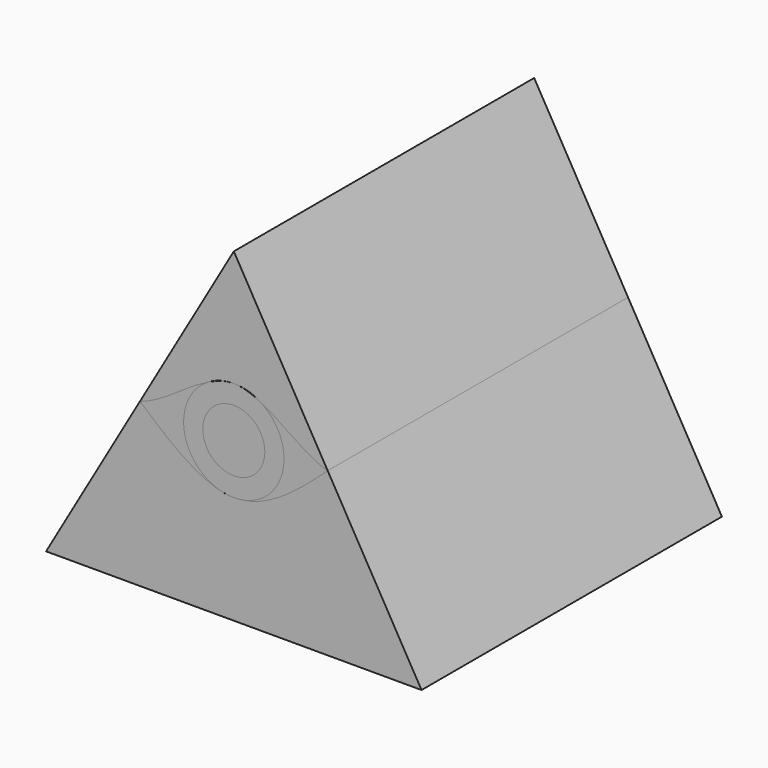
from build123d import *

# Parameters (mm, degrees)
F1_DEPTH = 25.4
F2_DEPTH = 25.4
F0_R     = 2.0978852378
F3_DEPTH = 25.4
F4_DEPTH = 25.4


with BuildPart() as f1:
    # F0 (on Front) → F1 (new body)
    with BuildSketch(Plane.XZ):
        with BuildLine():
            add(Edge.make_bspline(
                [(-12.7, 7.3323484187), (-10.5868676769, 7.2995452687), (-8.480804041, 9.0342229232), (-6.35, 10.9985226281)],
                knots=[0.5, 0.5, 0.5, 0.5, 1, 1, 1, 1], degree=3))
            add(Edge.make_bspline(
                [(-10.9566757348, 13.6443291005), (-9.4315203102, 12.8820206207), (-7.9096867806, 11.4385141645), (-6.35, 10.9985226281)],
                knots=[0.6377352874, 0.6377352874, 0.6377352874, 0.6377352874, 1, 1, 1, 1], degree=3))
            ThreePointArc((-10.9566757348, 13.6443291005), (-9.7453901873, 12.4048256996), (-9.3032627647, 10.729085654))
            ThreePointArc((-9.3032627647, 10.729085654), (-10.298144067, 8.327229721), (-12.7, 7.3323484187))
        make_face()
    extrude(amount=F1_DEPTH)


with BuildPart() as f1b:
    # F0 (on Front) → F1, piece 2 (new body)
    with BuildSketch(Plane.XZ):
        with BuildLine():
            add(Edge.make_bspline(
                [(-19.05, 10.9985226281), (-17.5134159045, 11.4502441937), (-15.937284411, 12.9413228119), (-14.3653817243, 13.6895463543)],
                knots=[0, 0, 0, 0, 0.3693022198, 0.3693022198, 0.3693022198, 0.3693022198], degree=3))
            add(Edge.make_bspline(
                [(-19.05, 10.9985226281), (-17.1705555831, 9.3708760181), (-15.2883246422, 7.7690918532), (-13.4107298629, 7.4075367822)],
                knots=[0, 0, 0, 0, 0.4439632481, 0.4439632481, 0.4439632481, 0.4439632481], degree=3))
            ThreePointArc((-13.4107298629, 7.4075367822), (-16.058182192, 10.2187561418), (-14.3653817243, 13.6895463543))
        make_face()
    extrude(amount=F1_DEPTH)


with BuildPart() as f2:
    # F0 (on Front) → F2 (new body)
    with BuildSketch(Plane.XZ):
        with BuildLine():
            Line((-25.4, 0), (0, 0))
            Line((0, 0), (-6.35, 10.9985226281))
            add(Edge.make_bspline(
                [(-12.7, 7.3323484187), (-10.5868676769, 7.2995452687), (-8.480804041, 9.0342229232), (-6.35, 10.9985226281)],
                knots=[0.5, 0.5, 0.5, 0.5, 1, 1, 1, 1], degree=3))
            ThreePointArc((-12.7, 7.3323484187), (-13.0573479495, 7.3511978097), (-13.4107298629, 7.4075367822))
            add(Edge.make_bspline(
                [(-19.05, 10.9985226281), (-17.1705555831, 9.3708760181), (-15.2883246422, 7.7690918532), (-13.4107298629, 7.4075367822)],
                knots=[0, 0, 0, 0, 0.4439632481, 0.4439632481, 0.4439632481, 0.4439632481], degree=3))
            Line((-19.05, 10.9985226281), (-25.4, 0))
        make_face()
    extrude(amount=F2_DEPTH)


with BuildPart() as f2b:
    # F0 (on Front) → F2, piece 2 (new body)
    with BuildSketch(Plane.XZ):
        with BuildLine():
            add(Edge.make_bspline(
                [(-10.9566757348, 13.6443291005), (-9.4315203102, 12.8820206207), (-7.9096867806, 11.4385141645), (-6.35, 10.9985226281)],
                knots=[0.6377352874, 0.6377352874, 0.6377352874, 0.6377352874, 1, 1, 1, 1], degree=3))
            Line((-6.35, 10.9985226281), (-12.7, 21.9970452561))
            Line((-12.7, 21.9970452561), (-19.05, 10.9985226281))
            add(Edge.make_bspline(
                [(-19.05, 10.9985226281), (-17.5134159045, 11.4502441937), (-15.937284411, 12.9413228119), (-14.3653817243, 13.6895463543)],
                knots=[0, 0, 0, 0, 0.3693022198, 0.3693022198, 0.3693022198, 0.3693022198], degree=3))
            ThreePointArc((-14.3653817243, 13.6895463543), (-13.563874614, 14.0141342833), (-12.706379445, 14.1258168987))
            ThreePointArc((-12.706379445, 14.1258168987), (-11.7987775235, 14.0040851798), (-10.9566757348, 13.6443291005))
        make_face()
    extrude(amount=F2_DEPTH)


with BuildPart() as f3:
    # F0 (on Front) → F3 (new body)
    with BuildSketch(Plane.XZ):
        with BuildLine():
            ThreePointArc((-9.3032627647, 10.729085654), (-9.7453901873, 12.4048256996), (-10.9566757348, 13.6443291005))
            add(Edge.make_bspline(
                [(-12.706379448, 14.1258185172), (-12.7042529289, 14.1258225126), (-12.1190194564, 14.1262240099), (-11.5365492734, 13.9341635059), (-10.9566757348, 13.6443291005)],
                knots=[0.499497705, 0.499497705, 0.499497705, 0.499497705, 0.5, 0.6377352874, 0.6377352874, 0.6377352874, 0.6377352874], degree=3))
            add(Edge.make_bspline(
                [(-14.3653817243, 13.6895463543), (-13.8112159973, 13.9533284872), (-13.2575758588, 14.1247829006), (-12.706379448, 14.1258185172)],
                knots=[0.3693022198, 0.3693022198, 0.3693022198, 0.3693022198, 0.499497705, 0.499497705, 0.499497705, 0.499497705], degree=3))
            ThreePointArc((-14.3653817243, 13.6895463543), (-16.058182192, 10.2187561418), (-13.4107298629, 7.4075367822))
            add(Edge.make_bspline(
                [(-13.4107298629, 7.4075367822), (-13.1737410731, 7.3619015367), (-12.9368261435, 7.3360247827), (-12.7, 7.3323484187)],
                knots=[0.4439632481, 0.4439632481, 0.4439632481, 0.4439632481, 0.5, 0.5, 0.5, 0.5], degree=3))
            ThreePointArc((-12.7, 7.3323484187), (-10.298144067, 8.327229721), (-9.3032627647, 10.729085654))
        make_face()
        with Locations((-12.7, 10.729085654)):
            Circle(F0_R, mode=Mode.SUBTRACT)
    extrude(amount=F3_DEPTH)


with BuildPart() as f4:
    # F0 (on Front) → F4 (new body)
    with BuildSketch(Plane.XZ):
        with Locations((-12.7, 10.729085654)):
            Circle(F0_R)
    extrude(amount=F4_DEPTH)


solid = Compound([f1.part, f1b.part, f2.part, f2b.part, f3.part, f4.part])
